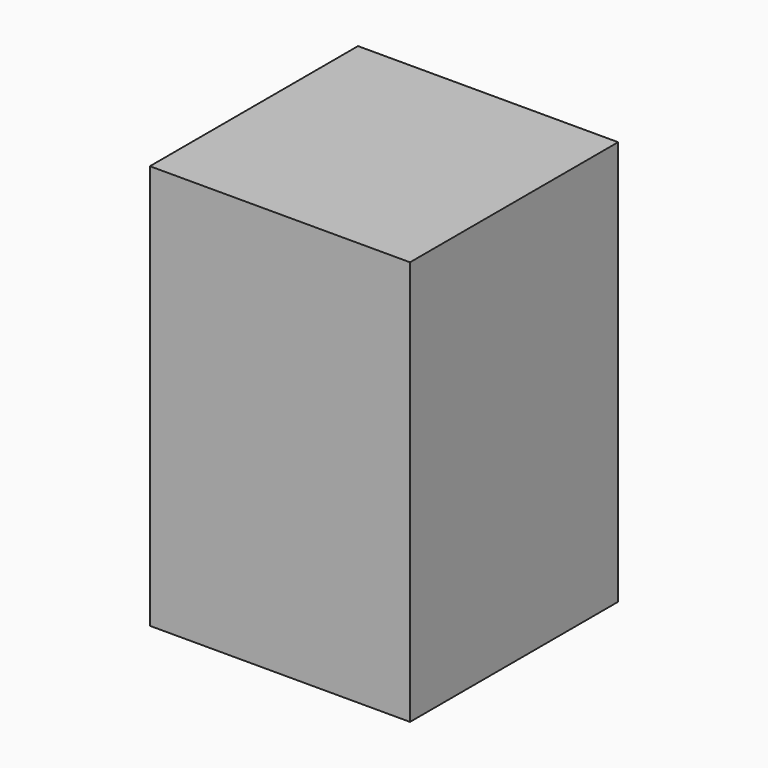
from build123d import *

# Parameters (mm, degrees)
F0_W     = 57.15
F0_H     = 57.15
F1_DEPTH = 88.9
F2_W     = 23.8125
F2_H     = 23.8125
F3_DEPTH = 85.725


with BuildPart() as f1:
    # F0 (on Top) → F1 (new body)
    with BuildSketch(Plane.XY):
        Rectangle(F0_W, F0_H)
    extrude(amount=F1_DEPTH)

    # F2 (on Top) → F3 (cut)
    with BuildSketch(Plane.XY):
        with Locations((-13.49375, -13.49375)):
            Rectangle(F2_W, F2_H)
        with Locations((13.49375, -13.49375)):
            Rectangle(F2_W, F2_H)
        with Locations((-13.49375, 13.49375)):
            Rectangle(F2_W, F2_H)
        with Locations((13.49375, 13.49375)):
            Rectangle(F2_W, F2_H)
    extrude(amount=F3_DEPTH, mode=Mode.SUBTRACT)


solid = f1.part
